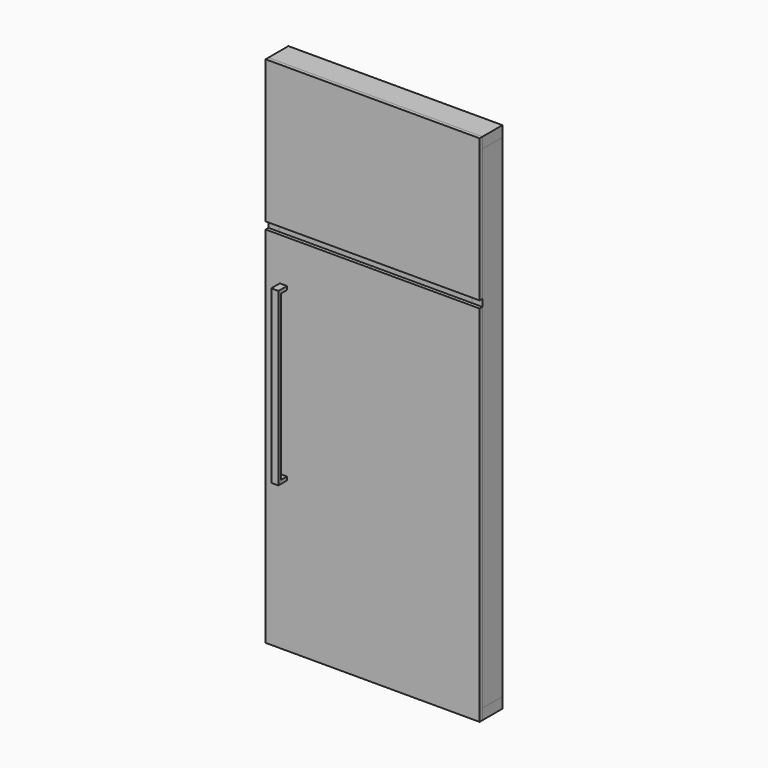
from build123d import *

# Parameters (mm, degrees)
F0_W      = 685.8
F0_H      = 38.1
F1_DEPTH  = 44.45
F2_DEPTH  = 44.45
F3_W      = 762
F3_H      = 508
F4_DEPTH  = 12.7
F5_W      = 762
F5_H      = 1295.4
F6_DEPTH  = 12.7
F8_W      = 25.4
F8_H      = 12.7
F9_DEPTH  = 12.7
F10_DEPTH = 12.7


with BuildPart() as f1:
    # F0 (on Front) → F1 (new body, symmetric)
    with BuildSketch(Plane.XZ):
        Polygon((-342.9, 876.3), (342.9, 876.3), (381, 876.3), (381, 914.4), (-381, 914.4), (-381, 876.3), align=None)
        with Locations((0, 393.7)):
            Rectangle(F0_W, F0_H)
        Polygon((381, -914.4), (381, -876.3), (342.9, -876.3), (-342.9, -876.3), (-381, -876.3), (-381, -914.4), align=None)
    extrude(amount=F1_DEPTH, both=True)


with BuildPart() as f2:
    # F0 (on Front) → F2 (new body, symmetric)
    with BuildSketch(Plane.XZ):
        Polygon((-342.9, 412.75), (-342.9, 876.3), (-381, 876.3), (-381, -876.3), (-342.9, -876.3), (-342.9, 374.65), align=None)
        Polygon((381, 876.3), (342.9, 876.3), (342.9, 412.75), (342.9, 374.65), (342.9, -876.3), (381, -876.3), align=None)
    extrude(amount=F2_DEPTH, both=True)


with BuildPart() as f4:
    # F3 (on face) → F4 (new body)
    with BuildSketch(Plane.XZ.offset(44.45)):
        with Locations((0, 660.4)):
            Rectangle(F3_W, F3_H)
    extrude(amount=F4_DEPTH)


with BuildPart() as f6:
    # F5 (on face) → F6 (new body)
    with BuildSketch(Plane.XZ.offset(44.45)):
        with Locations((0, -266.7)):
            Rectangle(F5_W, F5_H)
    extrude(amount=F6_DEPTH)


with BuildPart() as f9:
    # F8 (on offset) → F9 (new body, symmetric)
    with BuildSketch(Plane(origin=(-317.5, 0, 0), x_dir=(0, -1, 0), z_dir=(-1, 0, 0))):
        with Locations((69.85, 222.25)):
            Rectangle(F8_W, F8_H)
        Polygon((82.55, 228.6), (82.55, 215.9), (95.25, 228.6), align=None)
        with Locations((69.85, -374.65)):
            Rectangle(F8_W, F8_H)
        Polygon((95.25, -381), (82.55, -368.3), (82.55, -381), align=None)
    extrude(amount=F9_DEPTH, both=True)


with BuildPart() as f10:
    # F8 (on offset) → F10 (new body, symmetric)
    with BuildSketch(Plane(origin=(-317.5, 0, 0), x_dir=(0, -1, 0), z_dir=(-1, 0, 0))):
        Polygon((95.25, 228.6), (82.55, 215.9), (82.55, -368.3), (95.25, -381), align=None)
    extrude(amount=F10_DEPTH, both=True)


solid = Compound([f1.part, f2.part, f4.part, f6.part, f9.part, f10.part])
